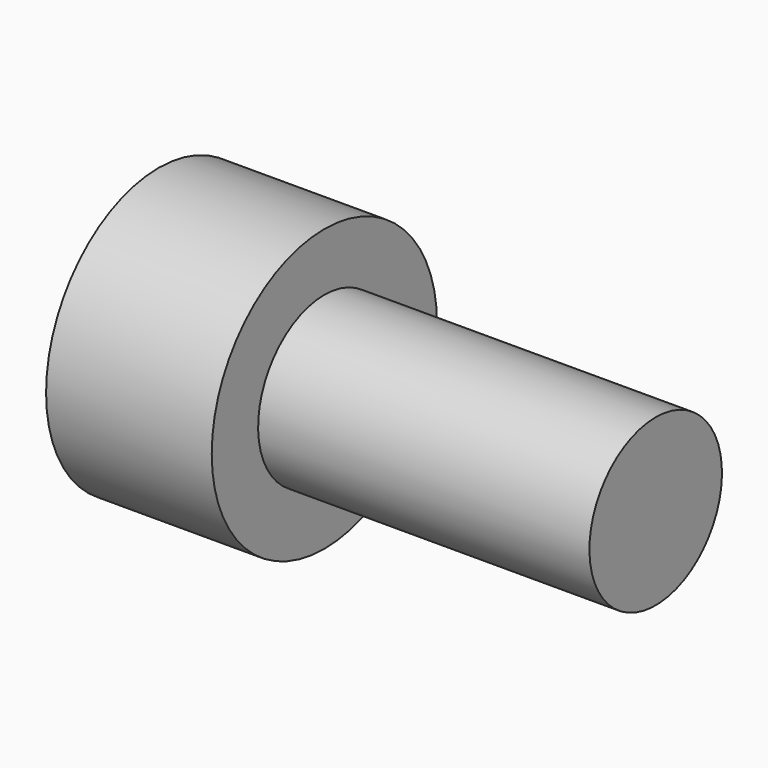
from build123d import *

# Parameters (mm, degrees)
F3_DEPTH = 3.5


with BuildPart() as f1:
    # F0 (on Front) → F1 (revolve)
    with BuildSketch(Plane.XZ):
        Polygon((5, 0), (0, 0), (0, -4.25), (15, -4.25), (15, -1.75), (5, -1.75), align=None)
    revolve(axis=Axis((7.5, 0, -4.25), (-1, 0, 0)))

    # F2 (on face) → F3 (cut)
    with BuildSketch(Plane(origin=(0, 0, 0), x_dir=(0, -1, 0), z_dir=(-1, 0, 0))):
        Polygon((1.154701, -2.25), (-1.154701, -2.25), (-2.309401, -4.25), (-1.154701, -6.25), (1.154701, -6.25), (2.309401, -4.25), align=None)
    extrude(amount=-F3_DEPTH, mode=Mode.SUBTRACT)


solid = f1.part
